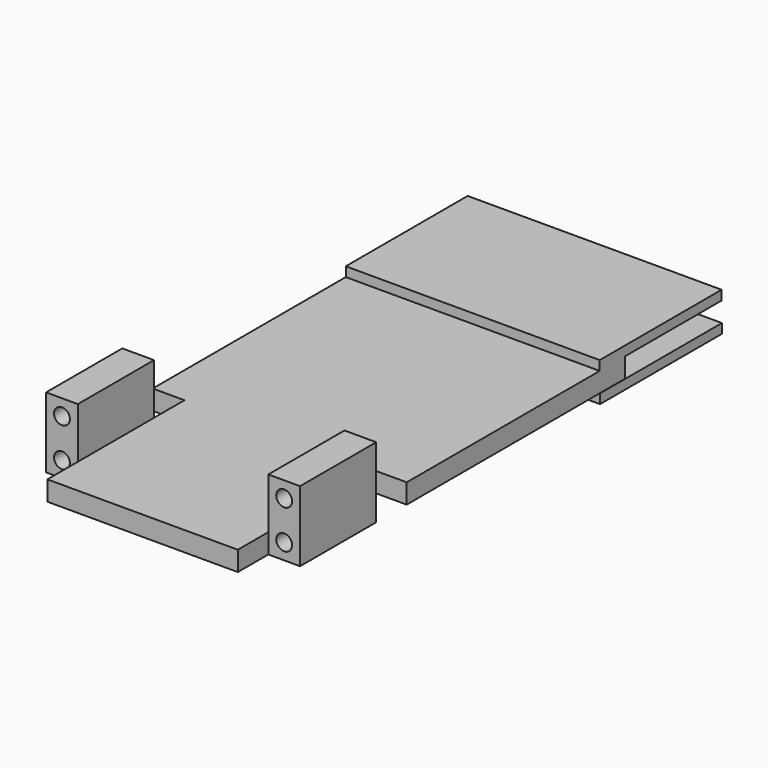
from build123d import *

# Parameters (mm, degrees)
F0_W      = 3.95
F0_H      = 17.6
F0_W_2    = 3.8
F1_DEPTH  = 3.1
F2_W      = 40
F2_H      = 24
F3_DEPTH  = 1.5
F5_DEPTH  = 1.5
F6_W      = 5
F6_H      = 15
F7_DEPTH  = 8
F8_W      = 5
F8_H      = 6
F9_DEPTH  = 4.601
F10_R     = 1.25
F11_DEPTH = 15
F12_R     = 1.25
F13_DEPTH = 15


with BuildPart() as f1:
    # F0 (on Top) → F1 (new body)
    with BuildSketch(Plane.XY):
        with Locations((0.025, 43.8)):
            Rectangle(F0_W, F0_H)
        with Locations((-13.95, 43.8)):
            Rectangle(F0_W_2, F0_H)
        with Locations((13.95, 43.8)):
            Rectangle(F0_W_2, F0_H)
        Polygon((20, -35), (20, 35), (15.85, 35), (12.05, 35), (2, 35), (-1.95, 35), (-12.05, 35), (-15.85, 35), (-20, 35), (-20, -35), align=None)
    extrude(amount=F1_DEPTH)

    # F2 (on face) → F3 (join)
    with BuildSketch(Plane.XY.offset(3.1)):
        with Locations((0, 42)):
            Rectangle(F2_W, F2_H)
    extrude(amount=F3_DEPTH)

    # F4 (on face) → F5 (join)
    with BuildSketch(Plane(origin=(0, 0, 0), x_dir=(1, 0, 0), z_dir=(0, 0, -1))):
        Polygon((20.048024, -30), (20, -30), (20, -35), (15.85, -35), (15.85, -52.6), (12.05, -52.6), (12.05, -35), (2, -35), (2, -52.6), (-1.95, -52.6), (-1.95, -35), (-12.05, -35), (-12.05, -52.6), (-15.85, -52.6), (-15.85, -35), (-20, -35), (-20, -54), (20.048024, -54), align=None)
        Polygon((20, -30), (-20, -30), (-20, -35), (-15.85, -35), (-15.85, -52.6), (-12.05, -52.6), (-12.05, -35), (-1.95, -35), (-1.95, -52.6), (2, -52.6), (2, -35), (12.05, -35), (12.05, -52.6), (15.85, -52.6), (15.85, -35), (20, -35), align=None)
    extrude(amount=F5_DEPTH)

    # F6 (on face) → F7 (join)
    with BuildSketch(Plane.XY.offset(3.1)):
        with Locations((17.5, -21.5)):
            Rectangle(F6_W, F6_H)
        with Locations((-17.5, -21.5)):
            Rectangle(F6_W, F6_H)
    extrude(amount=F7_DEPTH)

    # F8 (on face) → F9 (cut, through all)
    with BuildSketch(Plane.XY.offset(3.1)):
        with Locations((17.5, -32)):
            Rectangle(F8_W, F8_H)
        with Locations((17.5, -11)):
            Rectangle(F8_W, F8_H)
        with Locations((-17.5, -11)):
            Rectangle(F8_W, F8_H)
        with Locations((-17.5, -32)):
            Rectangle(F8_W, F8_H)
    extrude(amount=-F9_DEPTH, mode=Mode.SUBTRACT)

    # F10 (on face) → F11 (cut, through all)
    with BuildSketch(Plane.XZ.offset(29)):
        with Locations((17.5, 8.6)):
            Circle(F10_R)
        with Locations((17.5, 2.5)):
            Circle(F10_R)
    extrude(amount=-F11_DEPTH, mode=Mode.SUBTRACT)

    # F12 (on face) → F13 (cut, through all)
    with BuildSketch(Plane.XZ.offset(29)):
        with Locations((-17.5, 8.6)):
            Circle(F12_R)
        with Locations((-17.5, 2.5)):
            Circle(F12_R)
    extrude(amount=-F13_DEPTH, mode=Mode.SUBTRACT)


solid = f1.part
